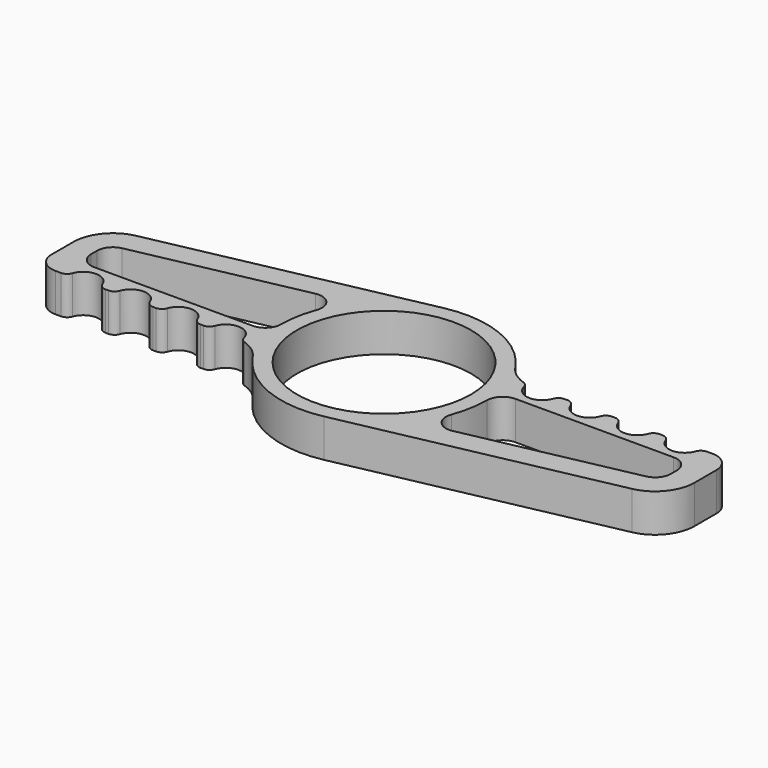
from build123d import *

# Parameters (mm, degrees)
F0_R     = 11
F1_DEPTH = 4.83


with BuildPart() as f1:
    # F0 (on Top) → F1 (new body)
    with BuildSketch(Plane.XY):
        with BuildLine():
            ThreePointArc((-36.01296, 5.824847), (-38.877164, 4.085682), (-40, 0.928531))
            Line((-40, 0.928531), (-40, -2.5))
            ThreePointArc((-40, -2.5), (-39.267767, -4.267767), (-37.5, -5))
            Line((-37.5, -5), (-36.828427, -5))
            ThreePointArc((-36.828427, -5), (-36.251077, -4.816497), (-35.885618, -4.333333))
            ThreePointArc((-35.885618, -4.333333), (-34, -3), (-32.114382, -4.333333))
            ThreePointArc((-32.114382, -4.333333), (-31.748923, -4.816497), (-31.171573, -5))
            Line((-31.171573, -5), (-30.828573, -5))
            ThreePointArc((-30.828573, -5), (-30.251193, -4.816476), (-29.88574, -4.333265))
            ThreePointArc((-29.88574, -4.333265), (-28.000073, -2.999794), (-26.114406, -4.333265))
            ThreePointArc((-26.114406, -4.333265), (-25.748953, -4.816476), (-25.171573, -5))
            Line((-25.171573, -5), (-24.828427, -5))
            ThreePointArc((-24.828427, -5), (-24.251077, -4.816497), (-23.885618, -4.333333))
            ThreePointArc((-23.885618, -4.333333), (-22, -3), (-20.114382, -4.333333))
            ThreePointArc((-20.114382, -4.333333), (-19.748923, -4.816497), (-19.171573, -5))
            Line((-19.171573, -5), (-18.828427, -5))
            ThreePointArc((-18.828427, -5), (-18.251077, -4.816497), (-17.885618, -4.333333))
            ThreePointArc((-17.885618, -4.333333), (-15.89445, -3.002787), (-14.054617, -4.535797))
            ThreePointArc((-14.054617, -4.535797), (-13.818534, -4.980014), (-13.396043, -5.253079))
            ThreePointArc((-13.396043, -5.253079), (-11.938126, -6.021537), (-10.809232, -7.222222))
            ThreePointArc((-10.809232, -7.222222), (-4.928987, -12.029343), (2.633697, -12.730422))
            Line((2.633697, -12.730422), (36.01296, -5.824847))
            ThreePointArc((36.01296, -5.824847), (38.877164, -4.085682), (40, -0.928531))
            Line((40, -0.928531), (40, 2.5))
            ThreePointArc((40, 2.5), (39.267767, 4.267767), (37.5, 5))
            Line((37.5, 5), (36.828427, 5))
            ThreePointArc((36.828427, 5), (36.251077, 4.816497), (35.885618, 4.333333))
            ThreePointArc((35.885618, 4.333333), (34, 3), (32.114382, 4.333333))
            ThreePointArc((32.114382, 4.333333), (31.748923, 4.816497), (31.171573, 5))
            Line((31.171573, 5), (30.828573, 5))
            ThreePointArc((30.828573, 5), (30.251193, 4.816476), (29.88574, 4.333265))
            ThreePointArc((29.88574, 4.333265), (28.000073, 2.999794), (26.114406, 4.333265))
            ThreePointArc((26.114406, 4.333265), (25.748953, 4.816476), (25.171573, 5))
            Line((25.171573, 5), (24.828427, 5))
            ThreePointArc((24.828427, 5), (24.251077, 4.816497), (23.885618, 4.333333))
            ThreePointArc((23.885618, 4.333333), (22, 3), (20.114382, 4.333333))
            ThreePointArc((20.114382, 4.333333), (19.748923, 4.816497), (19.171573, 5))
            Line((19.171573, 5), (18.828427, 5))
            ThreePointArc((18.828427, 5), (18.251077, 4.816497), (17.885618, 4.333333))
            ThreePointArc((17.885618, 4.333333), (15.89445, 3.002787), (14.054617, 4.535797))
            ThreePointArc((14.054617, 4.535797), (13.818534, 4.980014), (13.396043, 5.253079))
            ThreePointArc((13.396043, 5.253079), (11.938126, 6.021537), (10.809232, 7.222222))
            ThreePointArc((10.809232, 7.222222), (4.928987, 12.029343), (-2.633697, 12.730422))
            Line((-2.633697, 12.730422), (-36.01296, 5.824847))
        make_face()
        with BuildLine():
            ThreePointArc((14.451378, -7.222027), (12.527041, -6.564336), (12.173368, -4.5617))
            ThreePointArc((12.173368, -4.5617), (12.791673, -2.317996), (13, 0))
            ThreePointArc((13, 0), (13.585786, 1.414214), (15, 2))
            Line((15, 2), (35, 2))
            ThreePointArc((35, 2), (36.414214, 1.414214), (37, 0))
            Line((37, 0), (37, -0.928531))
            ThreePointArc((37, -0.928531), (36.550866, -2.191391), (35.405184, -2.887058))
            Line((35.405184, -2.887058), (14.451378, -7.222027))
        make_face(mode=Mode.SUBTRACT)
        with BuildLine():
            ThreePointArc((-14.451378, 7.222027), (-12.527041, 6.564336), (-12.173368, 4.5617))
            ThreePointArc((-12.173368, 4.5617), (-12.791673, 2.317996), (-13, 0))
            ThreePointArc((-13, 0), (-13.585786, -1.414214), (-15, -2))
            Line((-15, -2), (-35, -2))
            ThreePointArc((-35, -2), (-36.414214, -1.414214), (-37, 0))
            Line((-37, 0), (-37, 0.928531))
            ThreePointArc((-37, 0.928531), (-36.550866, 2.191391), (-35.405184, 2.887058))
            Line((-35.405184, 2.887058), (-14.451378, 7.222027))
        make_face(mode=Mode.SUBTRACT)
        Circle(F0_R, mode=Mode.SUBTRACT)
    extrude(amount=F1_DEPTH)


solid = f1.part
